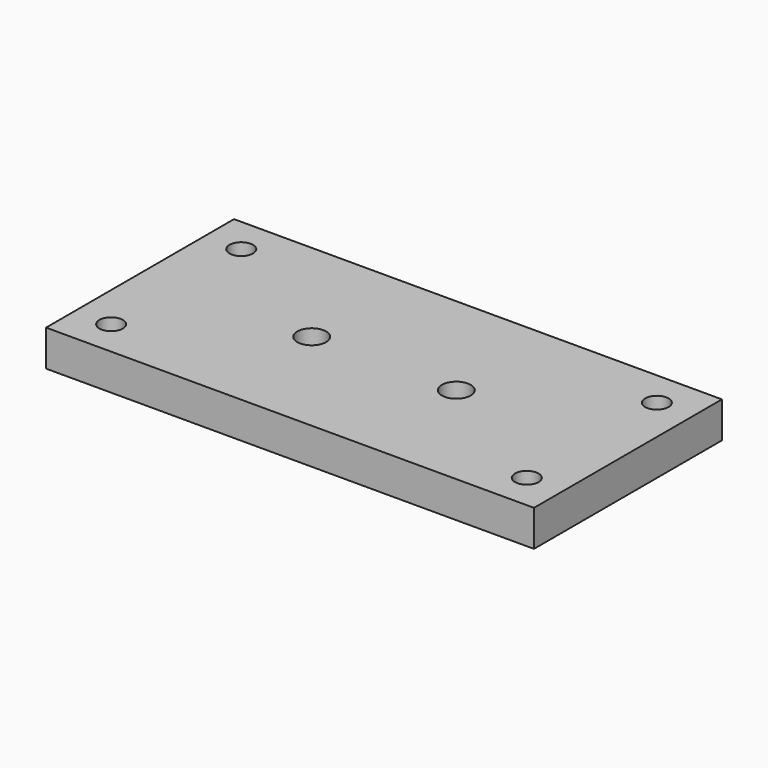
from build123d import *

# Parameters (mm, degrees)
F0_W     = 135
F0_H     = 65
F0_R     = 3.25
F0_R_2   = 4
F1_DEPTH = 10


with BuildPart() as f1:
    # F0 (on Top) → F1 (new body)
    with BuildSketch(Plane.XY):
        Rectangle(F0_W, F0_H)
        with Locations((-57.5, -22.5)):
            Circle(F0_R, mode=Mode.SUBTRACT)
        with Locations((57.5, -22.5)):
            Circle(F0_R, mode=Mode.SUBTRACT)
        with Locations((-20, 0)):
            Circle(F0_R_2, mode=Mode.SUBTRACT)
        with Locations((-57.5, 22.5)):
            Circle(F0_R, mode=Mode.SUBTRACT)
        with Locations((20, 0)):
            Circle(F0_R_2, mode=Mode.SUBTRACT)
        with Locations((57.5, 22.5)):
            Circle(F0_R, mode=Mode.SUBTRACT)
    extrude(amount=F1_DEPTH)


solid = f1.part
